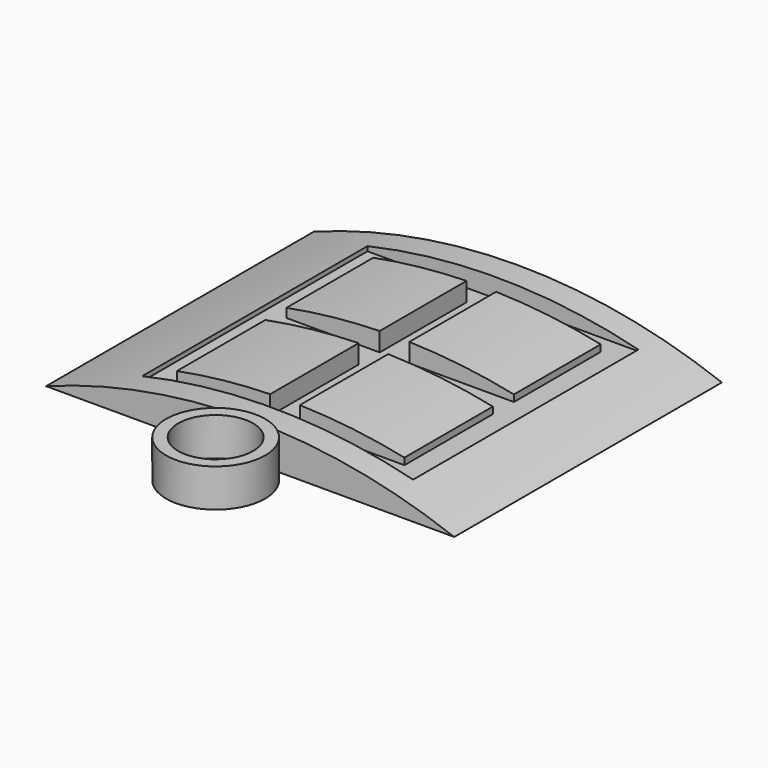
from build123d import *

# Parameters (mm, degrees)
F1_DEPTH      = 12.7
F1_DEPTH_BACK = 12.7
F2_R          = 3.7590001639
F2_R_2        = 2.8460000729
F3_DEPTH      = 2.888742
F5_START      = 1.36109
F4_W          = 20.5638939515
F4_H          = 21.3759541512
F4_W_2        = 2.247471828
F4_H_2        = 8.3905622596
F4_H_3        = 8.2407301525
F4_W_3        = 7.9414884094
F4_H_4        = 1.9977528136
F4_W_4        = 7.082369877
F5_DEPTH      = 1.68691


with BuildPart() as f1:
    # F0 (on Front) → F1 (new body, two sides)
    with BuildSketch(Plane.XZ) as f1_sk:
        with BuildLine():
            ThreePointArc((0, 2.8072327841), (-7.8279825435, 2.0919570377), (-15.405095836, 0))
            Line((-15.405095836, 0), (0, 0))
            Line((0, 0), (0, 2.8072327841))
        make_face()
        with BuildLine():
            Line((0, 2.8072327841), (0, 0))
            Line((0, 0), (15.581065618, 0))
            ThreePointArc((15.581065618, 0), (7.9173771666, 2.1076443124), (0, 2.8072327841))
        make_face()
    extrude(amount=F1_DEPTH)
    extrude(f1_sk.sketch, amount=-F1_DEPTH_BACK)

    # F2 (on Top) → F3 (join)
    with BuildSketch(Plane.XY):
        with Locations((0, -15.8657003194)):
            Circle(F2_R)
        with Locations((0, -15.8657003194)):
            Circle(F2_R_2, mode=Mode.SUBTRACT)
    extrude(amount=F3_DEPTH)

    # F4 (on Top) → F5 (cut)
    with BuildSketch(Plane.XY.offset(F5_START)):
        with Locations((0.5664420314, 0)):
            Rectangle(F4_W, F4_H)
        Polygon((-8.1206136383, 0.9988764068), (-8.1206136383, 9.2396065593), (-1.0382437613, 9.2396065593), (1.2092280667, 9.2396065593), (9.1507164761, 9.2396065593), (9.1507164761, 0.9988764068), (9.1507164761, -0.9988764068), (9.1507164761, -9.3894386664), (1.2092280667, -9.3894386664), (-1.0382437613, -9.3894386664), (-8.1206136383, -9.3894386664), (-8.1206136383, -0.9988764068), align=None, mode=Mode.SUBTRACT)
        with Locations((0.0854921527, -5.1941575366)):
            Rectangle(F4_W_2, F4_H_2)
        with Locations((0.0854921527, 5.119241483)):
            Rectangle(F4_W_2, F4_H_3)
        with Locations((5.1799722714, 0)):
            Rectangle(F4_W_3, F4_H_4)
        with Locations((-4.5794286998, 0)):
            Rectangle(F4_W_4, F4_H_4)
        with Locations((0.0854921527, 0)):
            Rectangle(F4_W_2, F4_H_4)
    extrude(amount=F5_DEPTH, mode=Mode.SUBTRACT)


solid = f1.part
